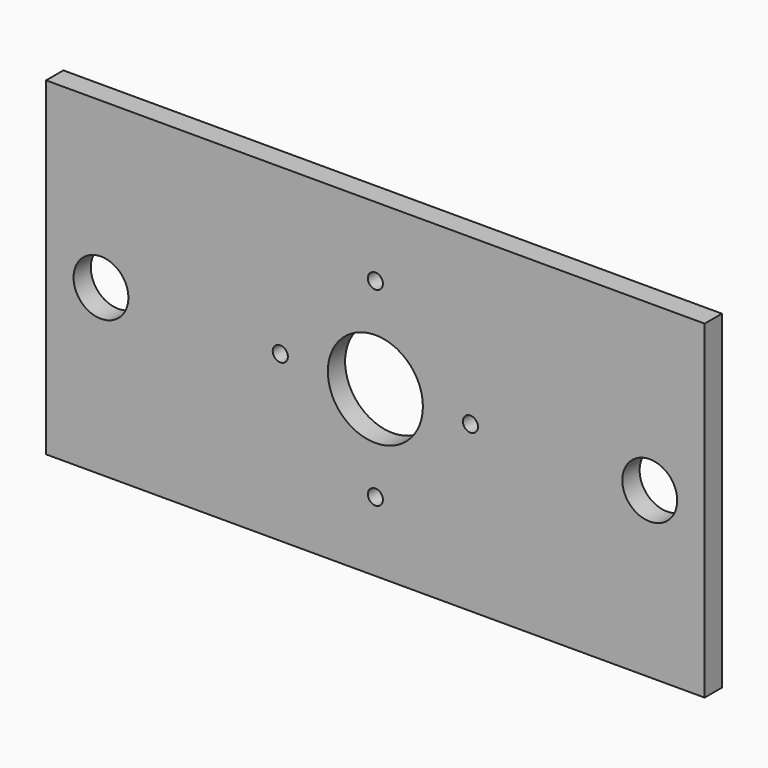
from build123d import *

# Parameters (mm, degrees)
F0_W     = 152.4
F0_H     = 76.2
F0_R     = 1.75
F0_R_2   = 6.35
F0_R_3   = 11
F1_DEPTH = 5


with BuildPart() as f1:
    # F0 (on Front) → F1 (new body)
    with BuildSketch(Plane.XZ):
        Rectangle(F0_W, F0_H)
        with Locations((0, -22)):
            Circle(F0_R, mode=Mode.SUBTRACT)
        with Locations((-63.5, 0)):
            Circle(F0_R_2, mode=Mode.SUBTRACT)
        with Locations((-22, 0)):
            Circle(F0_R, mode=Mode.SUBTRACT)
        Circle(F0_R_3, mode=Mode.SUBTRACT)
        with Locations((22, 0)):
            Circle(F0_R, mode=Mode.SUBTRACT)
        with Locations((63.5, 0)):
            Circle(F0_R_2, mode=Mode.SUBTRACT)
        with Locations((0, 22)):
            Circle(F0_R, mode=Mode.SUBTRACT)
    extrude(amount=F1_DEPTH)


solid = f1.part
